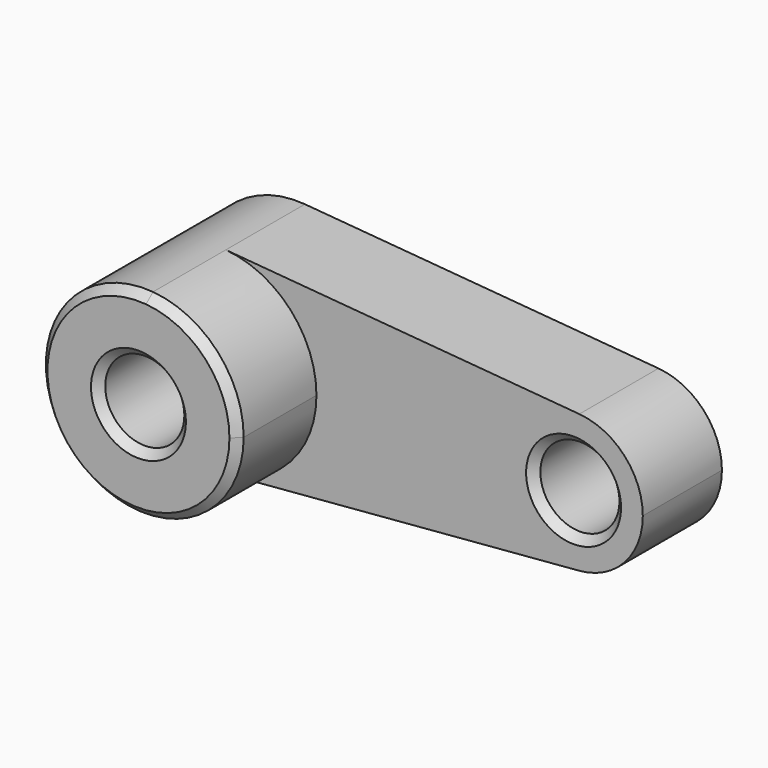
from build123d import *

# Parameters (mm, degrees)
F0_R     = 10
F1_DEPTH = 25
F2_DEPTH = 50
F3_SIZE  = 2
F4_SIZE  = 2


with BuildPart() as f1:
    # F0 (on Front) → F1 (new body)
    with BuildSketch(Plane.XZ):
        with BuildLine():
            ThreePointArc((2.083333, -24.913043), (18.399502, -16.92508), (25, 0))
            ThreePointArc((25, 0), (18.399502, 16.92508), (2.083333, 24.913043))
            ThreePointArc((2.083333, 24.913043), (-25, 0), (2.083333, -24.913043))
        make_face()
        Circle(F0_R, mode=Mode.SUBTRACT)
        with BuildLine():
            ThreePointArc((2.083333, 24.913043), (18.399502, 16.92508), (25, 0))
            ThreePointArc((25, 0), (18.399502, -16.92508), (2.083333, -24.913043))
            Line((2.083333, -24.913043), (91.458333, -17.43913))
            ThreePointArc((91.458333, -17.43913), (72.5, 0), (91.458333, 17.43913))
            Line((91.458333, 17.43913), (2.083333, 24.913043))
        make_face()
        with BuildLine():
            ThreePointArc((107.5, 0), (102.879651, 11.847556), (91.458333, 17.43913))
            ThreePointArc((91.458333, 17.43913), (72.5, 0), (91.458333, -17.43913))
            ThreePointArc((91.458333, -17.43913), (102.879651, -11.847556), (107.5, 0))
        make_face()
        with Locations((90, 0)):
            Circle(F0_R, mode=Mode.SUBTRACT)
    extrude(amount=F1_DEPTH)

    # F0 (on Front) → F2 (join)
    with BuildSketch(Plane.XZ):
        with BuildLine():
            ThreePointArc((2.083333, -24.913043), (18.399502, -16.92508), (25, 0))
            ThreePointArc((25, 0), (18.399502, 16.92508), (2.083333, 24.913043))
            ThreePointArc((2.083333, 24.913043), (-25, 0), (2.083333, -24.913043))
        make_face()
        Circle(F0_R, mode=Mode.SUBTRACT)
    extrude(amount=F2_DEPTH)

    # F3
    f3_edges = [f1.edges().sort_by_distance(p)[0] for p in [
        (-2.083333, -50, 24.913043),
        (-10, -50, 0),
        (80, -25, 0),
    ]]
    chamfer(f3_edges, length=F3_SIZE)

    # F4
    f4_edges = [f1.edges().sort_by_distance(p)[0] for p in [
        (-10, 0, 0),
        (80, 0, 0),
    ]]
    chamfer(f4_edges, length=F4_SIZE)


solid = f1.part
